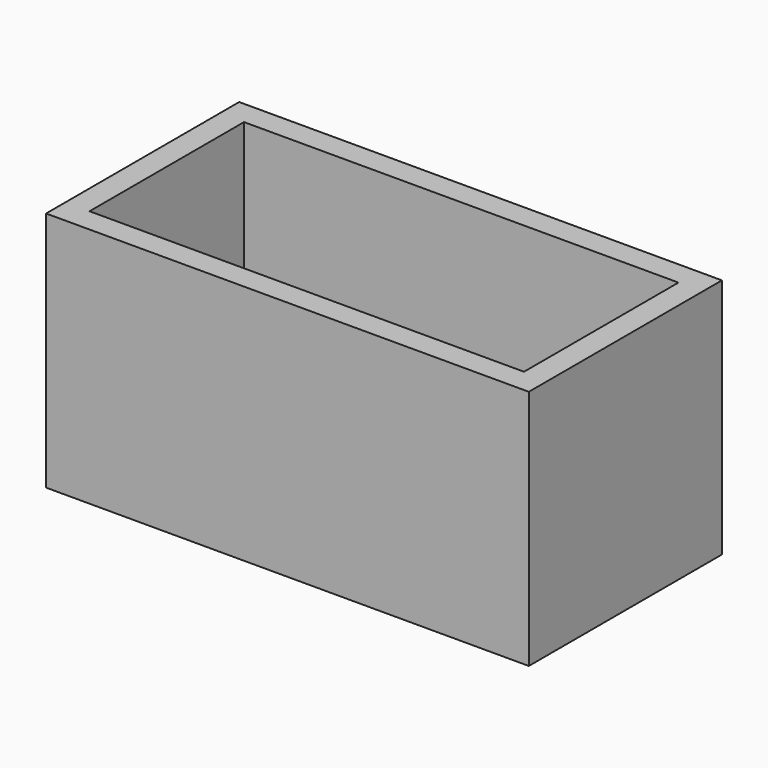
from build123d import *

# Parameters (mm, degrees)
F0_W     = 50.8
F0_H     = 25.4
F1_DEPTH = 25.4


with BuildPart() as f1:
    # F0 (on Top) → F1 (new body)
    with BuildSketch(Plane.XY):
        with Locations((25.4, 12.7)):
            Rectangle(F0_W, F0_H)
        Polygon((2.54, 2.54), (2.54, 12.7), (2.54, 22.86), (25.4, 22.86), (48.26, 22.86), (48.26, 12.7), (48.26, 2.54), (25.4, 2.54), align=None, mode=Mode.SUBTRACT)
        with Locations((25.4, 12.7)):
            Rectangle(F0_W, F0_H)
        Polygon((2.54, 2.54), (2.54, 12.7), (2.54, 22.86), (25.4, 22.86), (48.26, 22.86), (48.26, 12.7), (48.26, 2.54), (25.4, 2.54), align=None, mode=Mode.SUBTRACT)
    extrude(amount=F1_DEPTH)


solid = f1.part
